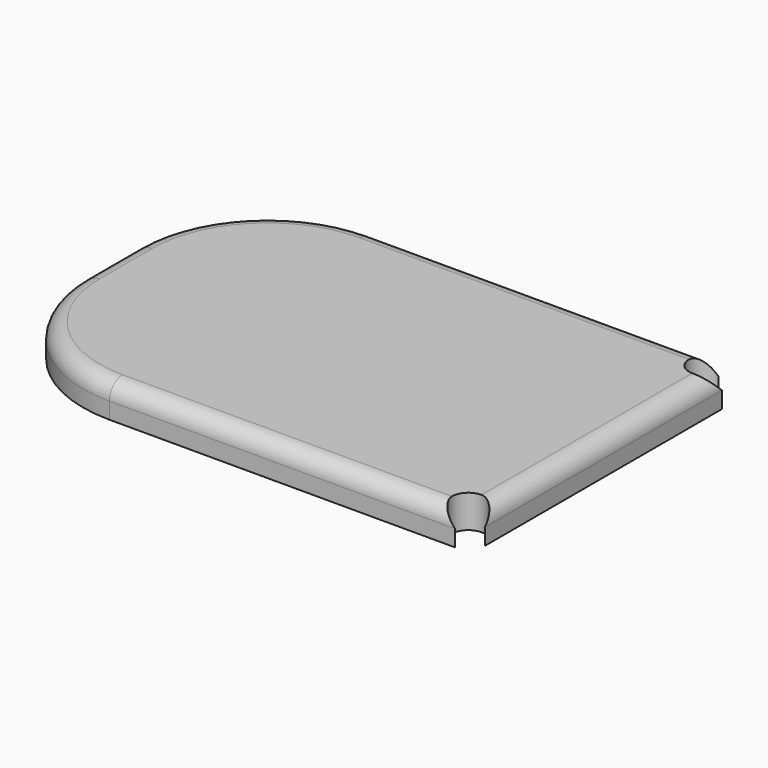
from build123d import *

# Parameters (mm, degrees)
F1_DEPTH = 10
F3_D     = 5
F3_DEPTH = 5
F3_TIP   = 1.5021515476
F5_D     = 1
F5_DEPTH = 5
F5_TIP   = 0.3004303095
F6_R     = 5


with BuildPart() as f1:
    # F0 (on Top) → F1 (new body)
    with BuildSketch(Plane.XY):
        with BuildLine():
            Line((-110, 0), (-5, 0))
            ThreePointArc((-5, 0), (-8.5355339059, 8.5355339059), (0, 5))
            Line((0, 5), (0, 95))
            ThreePointArc((0, 95), (-8.5355339059, 91.4644660941), (-5, 100))
            Line((-5, 100), (-110, 100))
            ThreePointArc((-110, 100), (-138.2842712475, 88.2842712475), (-150, 60))
            Line((-150, 60), (-150, 40))
            ThreePointArc((-150, 40), (-138.2842712475, 11.7157287525), (-110, 0))
        make_face()
    extrude(amount=F1_DEPTH)

    # F3
    with Locations(Plane(origin=(0, 0, 0), x_dir=(1, 0, 0), z_dir=(0, 0, -1))):
        with Locations((-30, -10), (-30, -90)):
            Hole(F3_D / 2, depth=F3_DEPTH)
            with Locations((0, 0, -(F3_DEPTH + F3_TIP / 2))):  # 118° drill point
                Cone(0, F3_D / 2, F3_TIP, mode=Mode.SUBTRACT)

    # F5
    with Locations(Plane(origin=(0, 0, 0), x_dir=(1, 0, 0), z_dir=(0, 0, -1))):
        with Locations((-138.2842712475, -40), (-138.2842712475, -60)):
            Hole(F5_D / 2, depth=F5_DEPTH)
            with Locations((0, 0, -(F5_DEPTH + F5_TIP / 2))):  # 118° drill point
                Cone(0, F5_D / 2, F5_TIP, mode=Mode.SUBTRACT)

    # F6
    f6_edges = [f1.edges().sort_by_distance(p)[0] for p in [
        (-57.5, 100, 10),
        (0, 50, 10),
    ]]
    fillet(f6_edges, radius=F6_R)


solid = f1.part
